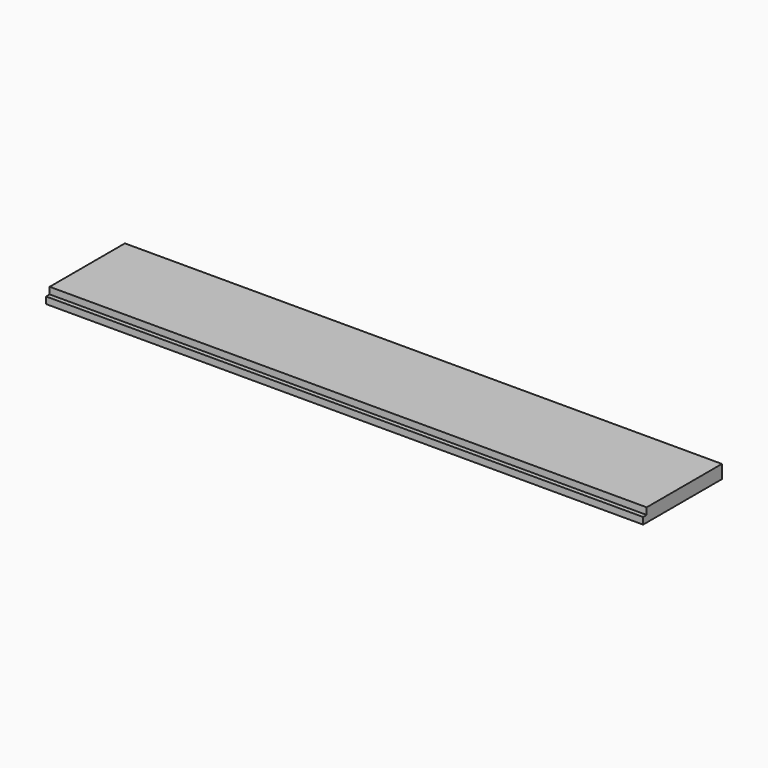
from build123d import *

# Parameters (mm, degrees)
F1_DEPTH = 18
F2_W     = 800
F2_H     = 9
F3_DEPTH = 6


with BuildPart() as f1:
    # F0 (on Top) → F1 (new body)
    with BuildSketch(Plane.XY):
        Polygon((0, 6), (0, 0), (800, 0), (800, 132), (0, 132), align=None)
    extrude(amount=F1_DEPTH)

    # F2 (on face) → F3 (cut)
    with BuildSketch(Plane.XZ):
        with Locations((400, 13.5)):
            Rectangle(F2_W, F2_H)
    extrude(amount=-F3_DEPTH, mode=Mode.SUBTRACT)


solid = f1.part
